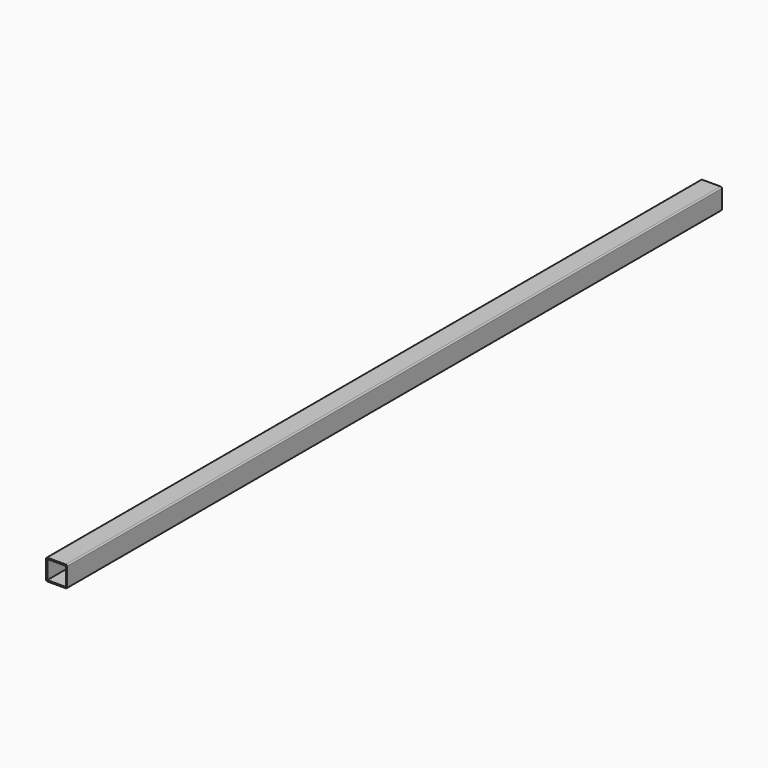
from build123d import *

# Parameters (mm, degrees)
F0_W     = 22.352
F0_H     = 22.352
F1_DEPTH = 990.6


with BuildPart() as f1:
    # F0 (on Front) → F1 (new body)
    with BuildSketch(Plane.XZ):
        with BuildLine():
            ThreePointArc((0, 1.524), (0.446369, 0.446369), (1.524, 0))
            Line((1.524, 0), (23.876, 0))
            ThreePointArc((23.876, 0), (24.953631, 0.446369), (25.4, 1.524))
            Line((25.4, 1.524), (25.4, 23.876))
            ThreePointArc((25.4, 23.876), (24.953631, 24.953631), (23.876, 25.4))
            Line((23.876, 25.4), (1.524, 25.4))
            ThreePointArc((1.524, 25.4), (0.446369, 24.953631), (0, 23.876))
            Line((0, 23.876), (0, 1.524))
        make_face()
        with Locations((12.7, 12.7)):
            Rectangle(F0_W, F0_H, mode=Mode.SUBTRACT)
    extrude(amount=F1_DEPTH)


solid = f1.part
